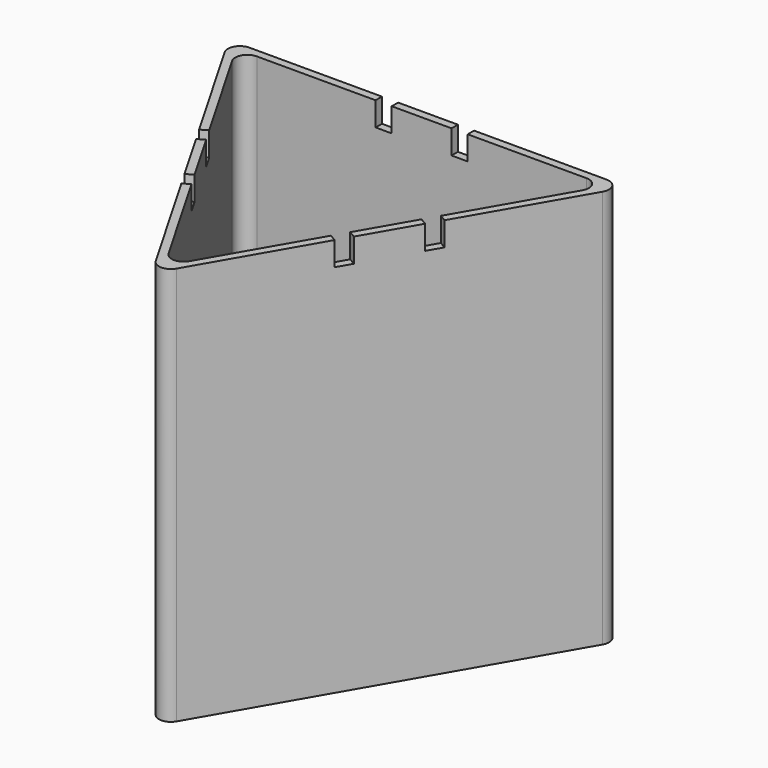
from build123d import *

# Parameters (mm, degrees)
F1_DEPTH = 100
F2_W     = 4.05
F2_H     = 2
F3_DEPTH = 6


with BuildPart() as f1:
    # F0 (on Top) → F1 (new body)
    with BuildSketch(Plane.XY):
        with BuildLine():
            Line((76.0228561422, 21.0123993456), (-13.5848390123, 21.0123993456))
            ThreePointArc((-13.5848390123, 21.0123993456), (-16.1829152237, 19.5123993456), (-16.1829152237, 16.5123993456))
            Line((-16.1829152237, 16.5123993456), (28.6209323536, -61.0901410328))
            ThreePointArc((28.6209323536, -61.0901410328), (31.2190085649, -62.5901410328), (33.8170847763, -61.0901410328))
            Line((33.8170847763, -61.0901410328), (78.6209323536, 16.5123993456))
            ThreePointArc((78.6209323536, 16.5123993456), (78.6209323536, 19.5123993456), (76.0228561422, 21.0123993456))
        make_face()
        with BuildLine():
            ThreePointArc((-12.7188136086, 14.5123993456), (-12.7188136086, 17.5123993456), (-10.1207373972, 19.0123993456))
            Line((-10.1207373972, 19.0123993456), (72.5587545271, 19.0123993456))
            ThreePointArc((72.5587545271, 19.0123993456), (75.1568307385, 17.5123993456), (75.1568307385, 14.5123993456))
            Line((75.1568307385, 14.5123993456), (33.8170847763, -57.0901410328))
            ThreePointArc((33.8170847763, -57.0901410328), (31.2190085649, -58.5901410328), (28.6209323536, -57.0901410328))
            Line((28.6209323536, -57.0901410328), (-12.7188136086, 14.5123993456))
        make_face(mode=Mode.SUBTRACT)
    extrude(amount=F1_DEPTH)

    # F2 (on face) → F3 (cut)
    with BuildSketch(Plane.XY.offset(100)):
        with Locations((21.6940085649, 20.0123993456)):
            Rectangle(F2_W, F2_H)
        with Locations((40.7440085649, 20.0123993456)):
            Rectangle(F2_W, F2_H)
        Polygon((2.1760593725, -11.2862774299), (0.4440085649, -12.2862774299), (2.4690085649, -15.7936803152), (4.2010593725, -14.7936803152), align=None)
        Polygon((11.7010593725, -27.784061372), (9.9690085649, -28.784061372), (11.9940085649, -32.2914642573), (13.7260593725, -31.2914642573), align=None)
        Polygon((61.9940085649, -12.2862774299), (60.2619577574, -11.2862774299), (58.2369577574, -14.7936803152), (59.9690085649, -15.7936803152), align=None)
        Polygon((52.4690085649, -28.784061372), (50.7369577574, -27.784061372), (48.7119577574, -31.2914642573), (50.4440085649, -32.2914642573), align=None)
    extrude(amount=-F3_DEPTH, mode=Mode.SUBTRACT)


solid = f1.part
